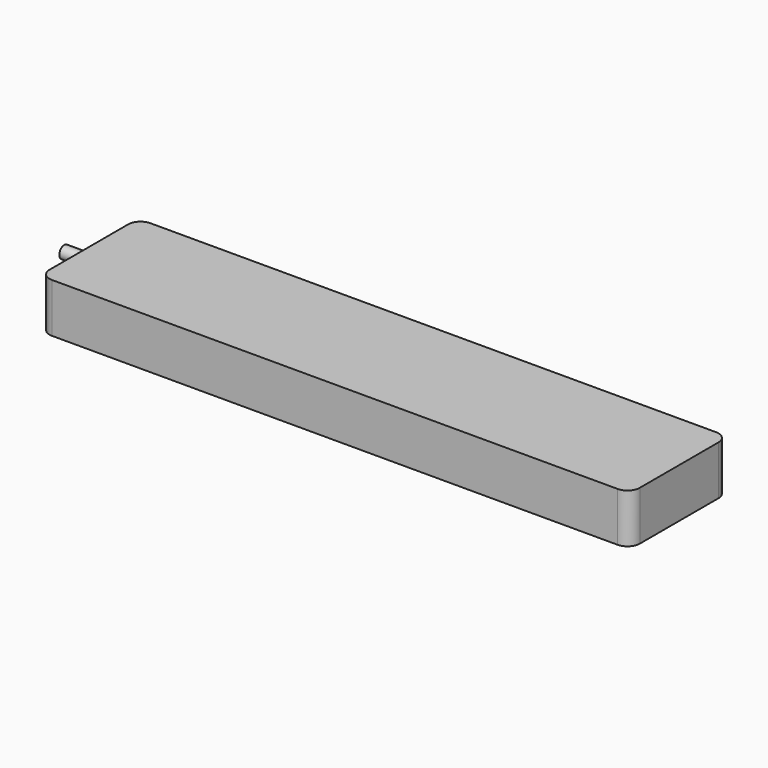
from build123d import *

# Parameters (mm, degrees)
F0_W     = 240
F0_H     = 50
F0_R     = 3.5
F1_DEPTH = 20
F2_R     = 5
F4_R     = 3.5
F4_R_2   = 2.5
F5_DEPTH = 10
F3_R     = 2.5
F3_R_2   = 1.5
F6_DEPTH = 10


with BuildPart() as f1:
    # F0 (on Top) → F1 (new body)
    with BuildSketch(Plane.XY):
        Rectangle(F0_W, F0_H)
        Circle(F0_R, mode=Mode.SUBTRACT)
        Circle(F0_R)
    extrude(amount=F1_DEPTH)

    # F2
    f2_edges = [f1.edges().sort_by_distance(p)[0] for p in [
        (-120, -25, 10),
        (120, -25, 10),
        (120, 25, 10),
        (-120, 25, 10),
    ]]
    fillet(f2_edges, radius=F2_R)

    # F4 (on face) → F5 (join)
    with BuildSketch(Plane(origin=(0, 0, 0), x_dir=(1, 0, 0), z_dir=(0, 0, -1))):
        Circle(F4_R)
        Circle(F4_R_2, mode=Mode.SUBTRACT)
    extrude(amount=F5_DEPTH)

    # F3 (on face) → F6 (join)
    with BuildSketch(Plane(origin=(-120, 0, 0), x_dir=(0, -1, 0), z_dir=(-1, 0, 0))):
        with Locations((0, 15)):
            Circle(F3_R)
        with Locations((0, 15)):
            Circle(F3_R_2, mode=Mode.SUBTRACT)
    extrude(amount=F6_DEPTH)


solid = f1.part
